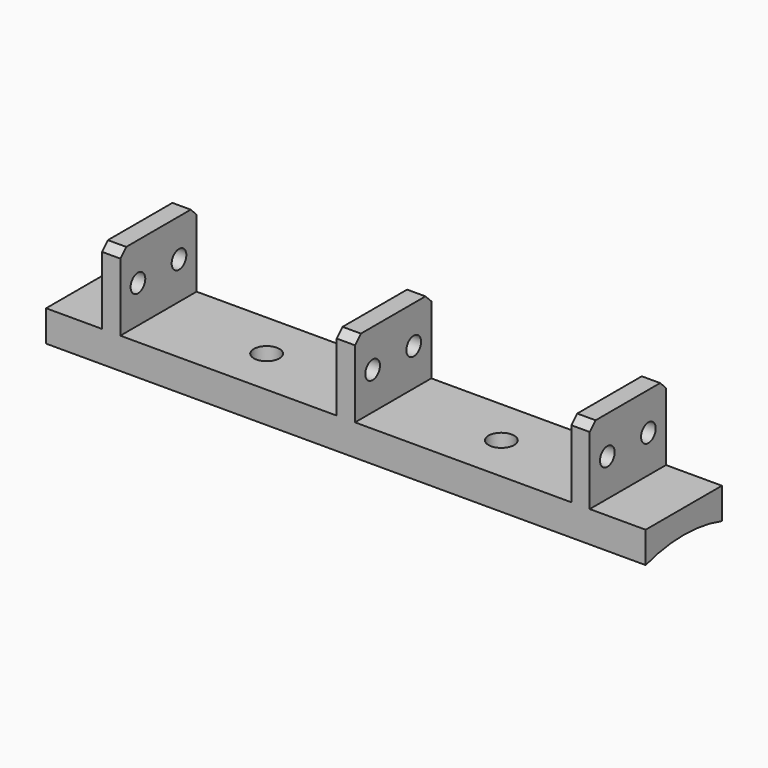
from build123d import *

# Parameters (mm, degrees)
F1_DEPTH = 26
F3_DEPTH = 200
F4_SIZE2 = 2
F4_SIZE  = 2
F5_D     = 5
F5_DEPTH = 300
F5_START = 15.25
F5_TIP   = 1.5021515476
F8_D     = 7
F8_DEPTH = 300
F8_TIP   = 2.1030121666


with BuildPart() as f1:
    # F0 (on Front) → F1 (new body)
    with BuildSketch(Plane.XZ):
        Polygon((-71.2336192391, 8.5), (-71.2336192391, 0), (92.2663807609, 0), (92.2663807609, 8.5), (77.0163807609, 8.5), (77.0163807609, 29), (72.0163807609, 29), (72.0163807609, 8.5), (13.0163807609, 8.5), (13.0163807609, 29), (8.0163807609, 29), (8.0163807609, 8.5), (-50.9836192391, 8.5), (-50.9836192391, 29), (-55.9836192391, 29), (-55.9836192391, 8.5), align=None)
        Polygon((-71.2336192391, 8.5), (-71.2336192391, 0), (92.2663807609, 0), (92.2663807609, 8.5), (77.0163807609, 8.5), (77.0163807609, 29), (72.0163807609, 29), (72.0163807609, 8.5), (13.0163807609, 8.5), (13.0163807609, 29), (8.0163807609, 29), (8.0163807609, 8.5), (-50.9836192391, 8.5), (-50.9836192391, 29), (-55.9836192391, 29), (-55.9836192391, 8.5), align=None)
    extrude(amount=F1_DEPTH)

    # F2 (on face) → F3 (cut)
    with BuildSketch(Plane.YZ.offset(92.2663807609)):
        with BuildLine():
            ThreePointArc((-13, 1.9879535556), (-19.5755600396, 1.4880932085), (-26, 0))
            Line((-26, 0), (-13, 0))
            Line((-13, 0), (-13, 1.9879535556))
        make_face()
        with BuildLine():
            ThreePointArc((0, 0), (-6.4244399604, 1.4880932085), (-13, 1.9879535556))
            Line((-13, 1.9879535556), (-13, 0))
            Line((-13, 0), (0, 0))
        make_face()
    extrude(amount=-F3_DEPTH, mode=Mode.SUBTRACT)

    # F4
    f4_edges = [f1.edges().sort_by_distance(p)[0] for p in [
        (74.516381, 0, 29),
        (74.516381, -26, 29),
        (10.516381, -26, 29),
        (10.516381, 0, 29),
        (-53.483619, -26, 29),
        (-53.483619, 0, 29),
    ]]
    chamfer(f4_edges, length=F4_SIZE, length2=F4_SIZE2)

    # F5
    # its depths count from where the whole tool has entered the part; down to there all is cleared
    with Locations(Plane.YZ.offset(92.2663807609).offset(-F5_START)):
        with Locations((-20, 18.7), (-6, 18.7)):
            Hole(F5_D / 2, depth=F5_DEPTH)
            with Locations((0, 0, -(F5_DEPTH + F5_TIP / 2))):  # 118° drill point
                Cone(0, F5_D / 2, F5_TIP, mode=Mode.SUBTRACT)

    # F8
    with Locations(Plane.XY.offset(8.5)):
        with Locations((-21.4836192391, -13), (42.5163807609, -13)):
            Hole(F8_D / 2, depth=F8_DEPTH)
            with Locations((0, 0, -(F8_DEPTH + F8_TIP / 2))):  # 118° drill point
                Cone(0, F8_D / 2, F8_TIP, mode=Mode.SUBTRACT)


solid = f1.part
